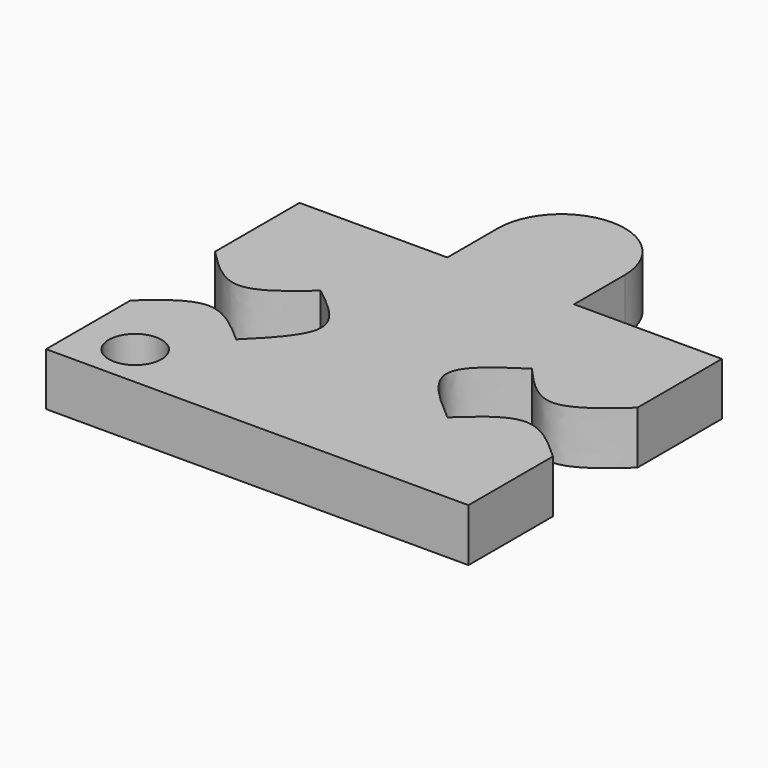
from build123d import *

# Parameters (mm, degrees)
F1_DEPTH = 6.35
F2_R     = 3.175
F3_DEPTH = 6.35


with BuildPart() as f1:
    # F0 (on Top) → F1 (new body)
    with BuildSketch(Plane.XY):
        with BuildLine():
            Line((0, 12.7), (0, 0))
            Line((0, 0), (50.8, 0))
            Line((50.8, 0), (50.8, 12.7))
            add(Edge.make_bspline(
                [(50.8, 12.7), (48.6625255622, 14.6524333598), (44.3991061989, 18.5467686764), (40.1959131853, 14.6454060899), (38.1, 12.7)],
                knots=[0, 0, 0, 0, 0.5013521438, 1, 1, 1, 1], degree=3))
            add(Edge.make_bspline(
                [(38.1, 12.7), (35.2362812476, 15.1247093608), (29.6729807092, 19.8351533876), (35.3467927178, 23.5818985232), (38.1, 25.4)],
                knots=[0, 0, 0, 0, 0.5147517616, 1, 1, 1, 1], degree=3))
            add(Edge.make_bspline(
                [(38.1, 25.4), (39.9179639958, 23.3656390647), (43.6968492215, 19.1369433918), (48.37331205, 23.2603179807), (50.8, 25.4)],
                knots=[0, 0, 0, 0, 0.4810847346, 1, 1, 1, 1], degree=3))
            Line((50.8, 25.4), (50.8, 38.1))
            Line((50.8, 38.1), (33.02, 38.1))
            Line((33.02, 38.1), (33.02, 45.72))
            ThreePointArc((33.02, 45.72), (25.4, 53.34), (17.78, 45.72))
            Line((17.78, 45.72), (17.78, 38.1))
            Line((17.78, 38.1), (0, 38.1))
            Line((0, 38.1), (0, 25.4))
            add(Edge.make_bspline(
                [(0, 25.4), (1.9184660831, 23.4522608086), (5.857149342, 19.4534787537), (10.3801014579, 23.3839796805), (12.7, 25.4)],
                knots=[0, 0, 0, 0, 0.487083108, 1, 1, 1, 1], degree=3))
            add(Edge.make_bspline(
                [(12.7, 12.7), (15.1297413304, 15.1206540979), (19.8306937088, 19.8040249145), (15.0228529426, 23.577087991), (12.7, 25.4)],
                knots=[0, 0, 0, 0, 0.5168615069, 1, 1, 1, 1], degree=3))
            add(Edge.make_bspline(
                [(0, 12.7), (2.1166666667, 14.5722865894), (6.35, 18.3168597683), (10.5833333333, 14.5722865894), (12.7, 12.7)],
                knots=[0, 0, 0, 0, 0.5, 1, 1, 1, 1], degree=3))
        make_face()
    extrude(amount=F1_DEPTH)

    # F2 (on face) → F3 (cut, through all)
    with BuildSketch(Plane.XY.offset(6.35)):
        with Locations((6.5801870078, 5.1745763049)):
            Circle(F2_R)
    extrude(amount=-F3_DEPTH, mode=Mode.SUBTRACT)


solid = f1.part
